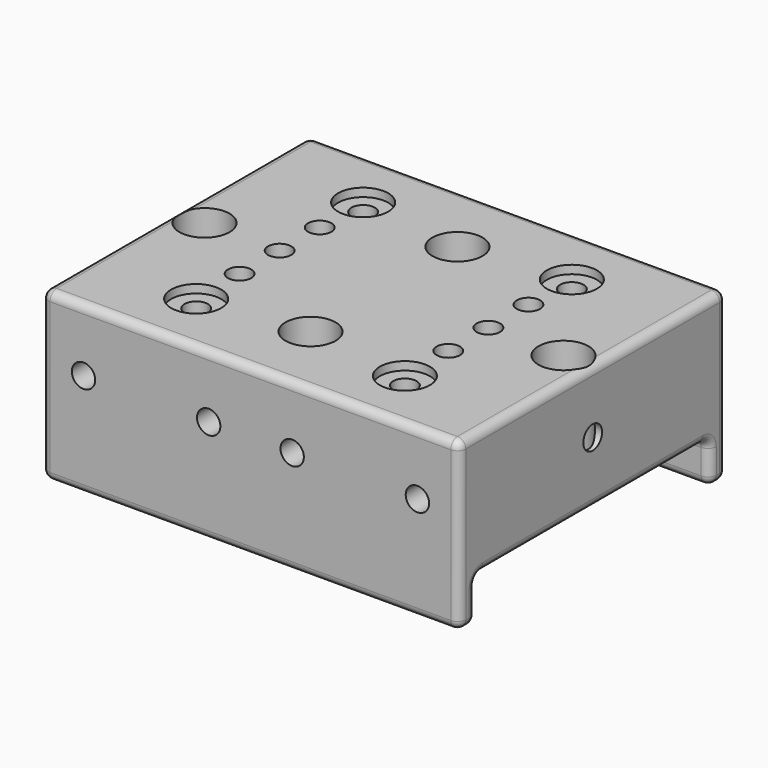
from build123d import *

# Parameters (mm, degrees)
SKETCH_W        = 50
SKETCH_H        = 40
PAD_DEPTH       = 20
SKETCH001_W     = 35
SKETCH001_H     = 5
POCKET_DEPTH    = 50.001
FILLET_R        = 1
SKETCH002_R     = 1.4
SKETCH002_R_2   = 3
POCKET004_DEPTH = 20.001
SKETCH004_R     = 1.4
POCKET005_DEPTH = 40.001
SKETCH005_R     = 1.4
POCKET006_DEPTH = 50.001
SKETCH006_R     = 3
POCKET007_DEPTH = 1


with BuildPart() as part:
    # Sketch → Pad (new body)
    with BuildSketch(Plane.XY):
        Rectangle(SKETCH_W, SKETCH_H)
    extrude(amount=PAD_DEPTH)

    # Sketch001 (on Face3 of Pad) → Pocket (cut, through all)
    with BuildSketch(Plane.YZ.offset(25)):
        with Locations((0, 2.5)):
            Rectangle(SKETCH001_W, SKETCH001_H)
    extrude(amount=-POCKET_DEPTH, mode=Mode.SUBTRACT)

    # Fillet
    fillet_edges = [part.edges().sort_by_distance(p)[0] for p in [
        (-25, 18.75, 0),
        (-25, 17.5, 2.5),
        (-25, 0, 5),
        (-25, -17.5, 2.5),
        (-25, -18.75, 0),
        (-25, -20, 10),
        (-25, 0, 20),
        (-25, 20, 10),
        (0, 20, 0),
        (25, 18.75, 0),
        (0, 17.5, 0),
        (25, 17.5, 2.5),
        (0, 17.5, 5),
        (25, 0, 5),
        (0, -17.5, 5),
        (25, -17.5, 2.5),
        (0, -17.5, 0),
        (25, -18.75, 0),
        (0, -20, 0),
        (25, -20, 10),
        (0, -20, 20),
        (25, 0, 20),
        (0, 20, 20),
        (25, 20, 10),
    ]]
    fillet(fillet_edges, radius=FILLET_R)

    # Sketch002 (on Face8 of Pocket) → Pocket004 (cut, through all)
    with BuildSketch(Plane.XY.offset(20)):
        with Locations((-12.5, 12.5)):
            Circle(SKETCH002_R)
        with Locations((-12.5, -12.5)):
            Circle(SKETCH002_R)
        with Locations((12.5, 12.5)):
            Circle(SKETCH002_R)
        with Locations((12.5, -12.5)):
            Circle(SKETCH002_R)
        with Locations((-12.5, 6)):
            Circle(SKETCH002_R)
        with Locations((-12.5, 0)):
            Circle(SKETCH002_R)
        with Locations((-12.5, -6)):
            Circle(SKETCH002_R)
        with Locations((12.5, 6)):
            Circle(SKETCH002_R)
        with Locations((12.5, 0)):
            Circle(SKETCH002_R)
        with Locations((12.5, -6)):
            Circle(SKETCH002_R)
        with Locations((0, 11)):
            Circle(SKETCH002_R_2)
        with Locations((0, -11)):
            Circle(SKETCH002_R_2)
        with Locations((-21.5, 0)):
            Circle(SKETCH002_R_2)
        with Locations((21.5, 0)):
            Circle(SKETCH002_R_2)
    extrude(amount=-POCKET004_DEPTH, mode=Mode.SUBTRACT)

    # Sketch004 → Pocket005 (cut, through all)
    with BuildSketch(Plane(origin=(0, 20, 0), x_dir=(-1, 0, 0), z_dir=(0, 1, 0))):
        with Locations((5, 12.5)):
            Circle(SKETCH004_R)
        with Locations((20, 12.5)):
            Circle(SKETCH004_R)
        with Locations((-5, 12.5)):
            Circle(SKETCH004_R)
        with Locations((-20, 12.5)):
            Circle(SKETCH004_R)
    extrude(amount=-POCKET005_DEPTH, mode=Mode.SUBTRACT)

    # Sketch005 → Pocket006 (cut, through all)
    with BuildSketch(Plane(origin=(-25, 0, 0), x_dir=(0, -1, 0), z_dir=(-1, 0, 0))):
        with Locations((0, 12.5)):
            Circle(SKETCH005_R)
    extrude(amount=-POCKET006_DEPTH, mode=Mode.SUBTRACT)

    # Sketch006 (on Face20 of Pocket006) → Pocket007 (cut)
    with BuildSketch(Plane.XY.offset(20)):
        with Locations((-12.5, 12.5)):
            Circle(SKETCH006_R)
        with Locations((12.5, 12.5)):
            Circle(SKETCH006_R)
        with Locations((12.5, -12.5)):
            Circle(SKETCH006_R)
        with Locations((-12.5, -12.5)):
            Circle(SKETCH006_R)
    extrude(amount=-POCKET007_DEPTH, mode=Mode.SUBTRACT)


solid = part.part
